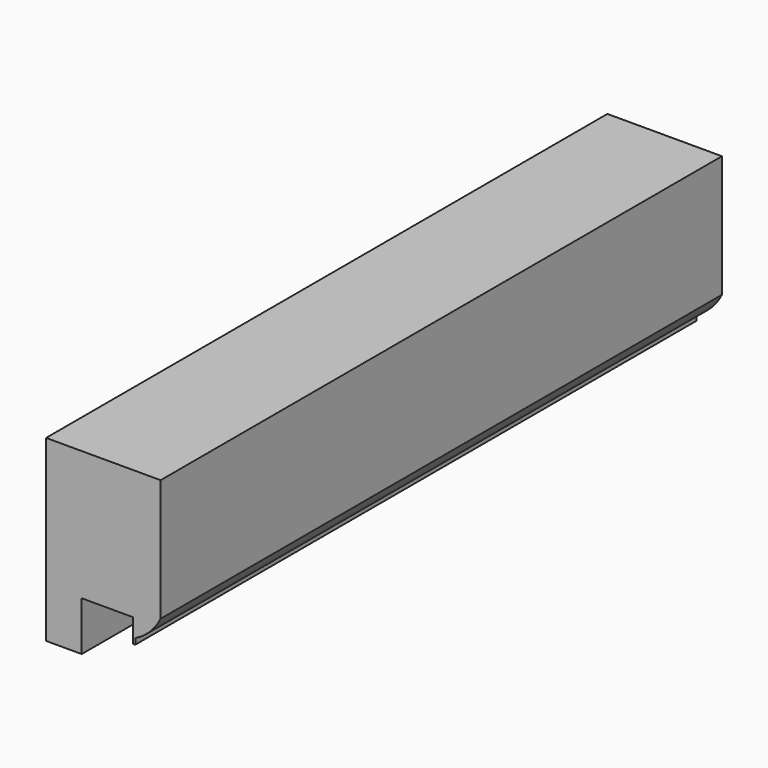
from build123d import *

# Parameters (mm, degrees)
F1_DEPTH = 1993.9
F2_R     = 12.065
F3_DEPTH = 254
F4_R     = 7.9375
F5_DEPTH = 6.35


with BuildPart() as f1:
    # F0 (on Front) → F1 (new body)
    with BuildSketch(Plane.XZ):
        with BuildLine():
            Line((-101.273338, 0), (0, 0))
            Line((0, 0), (0, 139.7))
            Line((0, 139.7), (146.05, 139.7))
            Line((146.05, 139.7), (146.05, 73.025))
            Line((146.05, 73.025), (152.4, 73.025))
            Line((152.4, 73.025), (152.4, 89.535))
            ThreePointArc((152.4, 89.535), (194.283381, 119.493668), (224.242049, 161.377049))
            Line((224.242049, 161.377049), (224.242049, 508))
            Line((224.242049, 508), (-101.273338, 508))
            Line((-101.273338, 508), (-101.273338, 0))
        make_face()
    extrude(amount=F1_DEPTH)

    # F2 (on face) → F3 (cut)
    with BuildSketch(Plane.YZ):
        with Locations((-1536.7, 88.9)):
            Circle(F2_R)
        with Locations((-508, 76.2)):
            Circle(F2_R)
    extrude(amount=-F3_DEPTH, mode=Mode.SUBTRACT)

    # F4 (on face) → F5 (join)
    with BuildSketch(Plane(origin=(0, 0, 0), x_dir=(1, 0, 0), z_dir=(0, 0, -1))):
        Polygon((-101.273338, 1460.5), (-101.273338, 1625.6), (-266.373338, 1625.6), (-151.579931, 1460.5), align=None)
        with Locations((-202.873338, 1590.675)):
            Circle(F4_R, mode=Mode.SUBTRACT)
    extrude(amount=-F5_DEPTH)


solid = f1.part
